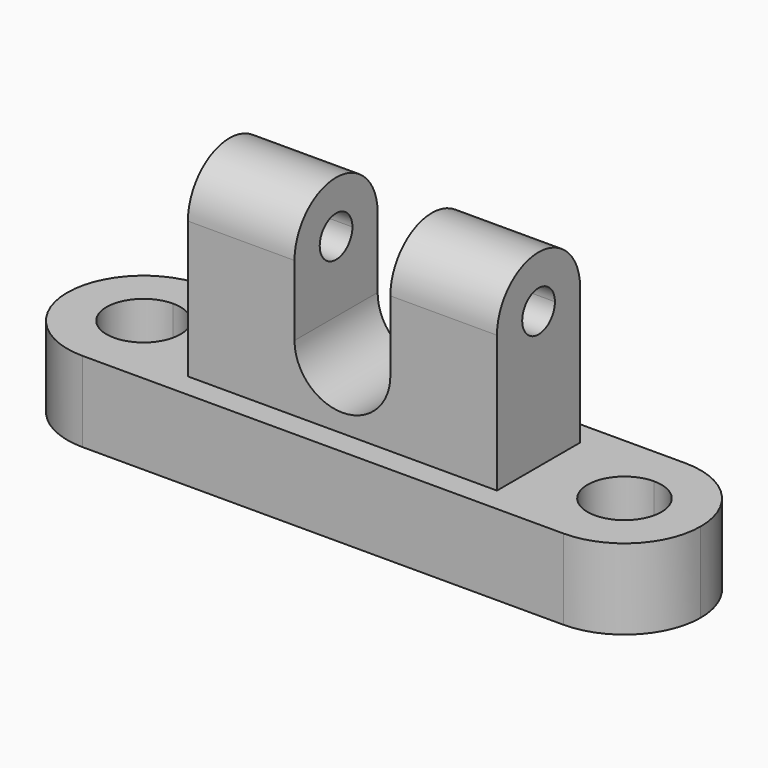
from build123d import *

# Parameters (mm, degrees)
F1_DEPTH = 13.208
F3_DEPTH = 25.4
F4_DEPTH = 25.4
F6_DEPTH = 25.4
F7_DEPTH = 25.4


with BuildPart() as f1:
    # F0 (on Top) → F1 (new body)
    with BuildSketch(Plane.XY):
        with BuildLine():
            ThreePointArc((39.5257622004, -12.5212473795), (27.0045148209, 0), (39.5257622004, 12.5212473795))
            Line((39.5257622004, 12.5212473795), (-39.5257622004, 12.5212473795))
            ThreePointArc((-39.5257622004, 12.5212473795), (-30.6719032694, 8.8538589309), (-27.0045148209, 0))
            ThreePointArc((-27.0045148209, 0), (-30.6719032694, -8.8538589309), (-39.5257622004, -12.5212473795))
            Line((-39.5257622004, -12.5212473795), (39.5257622004, -12.5212473795))
        make_face()
        with BuildLine():
            ThreePointArc((52.0470095798, 0), (48.3796211313, 8.8538589309), (39.5257622004, 12.5212473795))
            Line((39.5257622004, 12.5212473795), (39.5257622004, 6.073428591))
            ThreePointArc((39.5257622004, 6.073428591), (43.8203247421, 4.2945625417), (45.5991907913, 0))
            ThreePointArc((45.5991907913, 0), (43.8203247421, -4.2945625417), (39.5257622004, -6.073428591))
            Line((39.5257622004, -6.073428591), (39.5257622004, -12.5212473795))
            ThreePointArc((39.5257622004, -12.5212473795), (48.3796211313, -8.8538589309), (52.0470095798, 0))
        make_face()
        with BuildLine():
            Line((39.5257622004, 6.073428591), (39.5257622004, 12.5212473795))
            ThreePointArc((39.5257622004, 12.5212473795), (27.0045148209, 0), (39.5257622004, -12.5212473795))
            Line((39.5257622004, -12.5212473795), (39.5257622004, -6.073428591))
            ThreePointArc((39.5257622004, -6.073428591), (33.4523336094, 0), (39.5257622004, 6.073428591))
        make_face()
        with BuildLine():
            ThreePointArc((-27.0045148209, 0), (-30.6719032694, 8.8538589309), (-39.5257622004, 12.5212473795))
            Line((-39.5257622004, 12.5212473795), (-39.5257622004, 6.073428591))
            ThreePointArc((-39.5257622004, 6.073428591), (-35.2311996586, 4.2945625417), (-33.4523336094, 0))
            ThreePointArc((-33.4523336094, 0), (-35.2311996586, -4.2945625417), (-39.5257622004, -6.073428591))
            Line((-39.5257622004, -6.073428591), (-39.5257622004, -12.5212473795))
            ThreePointArc((-39.5257622004, -12.5212473795), (-30.6719032694, -8.8538589309), (-27.0045148209, 0))
        make_face()
        with BuildLine():
            Line((-39.5257622004, 6.073428591), (-39.5257622004, 12.5212473795))
            ThreePointArc((-39.5257622004, 12.5212473795), (-52.0470095798, 0), (-39.5257622004, -12.5212473795))
            Line((-39.5257622004, -12.5212473795), (-39.5257622004, -6.073428591))
            ThreePointArc((-39.5257622004, -6.073428591), (-45.5991907913, 0), (-39.5257622004, 6.073428591))
        make_face()
    extrude(amount=F1_DEPTH)

    # F2 (on Right) → F3 (join)
    with BuildSketch(Plane.YZ):
        with BuildLine():
            Line((8.5389625284, 35.6879048049), (3.3581880853, 35.6879048049))
            ThreePointArc((3.3581880853, 35.6879048049), (0, 32.3297167197), (-3.3581880853, 35.6879048049))
            Line((-3.3581880853, 35.6879048049), (-8.5389625284, 35.6879048049))
            ThreePointArc((-8.5389625284, 35.6879048049), (0, 27.1489422766), (8.5389625284, 35.6879048049))
        make_face()
        with BuildLine():
            ThreePointArc((-3.3581880853, 35.6879048049), (0, 39.0460928902), (3.3581880853, 35.6879048049))
            Line((3.3581880853, 35.6879048049), (8.5389625284, 35.6879048049))
            ThreePointArc((8.5389625284, 35.6879048049), (0, 44.2268673333), (-8.5389625284, 35.6879048049))
            Line((-8.5389625284, 35.6879048049), (-3.3581880853, 35.6879048049))
        make_face()
        with BuildLine():
            Line((8.5389625284, 0), (8.5389625284, 35.6879048049))
            ThreePointArc((8.5389625284, 35.6879048049), (0, 27.1489422766), (-8.5389625284, 35.6879048049))
            Line((-8.5389625284, 35.6879048049), (-8.5389625284, 0))
            Line((-8.5389625284, 0), (8.5389625284, 0))
        make_face()
    extrude(amount=F3_DEPTH)

    # F2 (on Right) → F4 (join)
    with BuildSketch(Plane.YZ):
        with BuildLine():
            Line((8.5389625284, 35.6879048049), (3.3581880853, 35.6879048049))
            ThreePointArc((3.3581880853, 35.6879048049), (0, 32.3297167197), (-3.3581880853, 35.6879048049))
            Line((-3.3581880853, 35.6879048049), (-8.5389625284, 35.6879048049))
            ThreePointArc((-8.5389625284, 35.6879048049), (0, 27.1489422766), (8.5389625284, 35.6879048049))
        make_face()
        with BuildLine():
            ThreePointArc((-3.3581880853, 35.6879048049), (0, 39.0460928902), (3.3581880853, 35.6879048049))
            Line((3.3581880853, 35.6879048049), (8.5389625284, 35.6879048049))
            ThreePointArc((8.5389625284, 35.6879048049), (0, 44.2268673333), (-8.5389625284, 35.6879048049))
            Line((-8.5389625284, 35.6879048049), (-3.3581880853, 35.6879048049))
        make_face()
        with BuildLine():
            Line((8.5389625284, 0), (8.5389625284, 35.6879048049))
            ThreePointArc((8.5389625284, 35.6879048049), (0, 27.1489422766), (-8.5389625284, 35.6879048049))
            Line((-8.5389625284, 35.6879048049), (-8.5389625284, 0))
            Line((-8.5389625284, 0), (8.5389625284, 0))
        make_face()
    extrude(amount=-F4_DEPTH)

    # F5 (on Front) → F6 (cut)
    with BuildSketch(Plane.XZ):
        with BuildLine():
            Line((-7.8779369453, 24.1020768881), (7.8779369453, 24.1020768881))
            ThreePointArc((7.8779369453, 24.1020768881), (0, 31.9800138334), (-7.8779369453, 24.1020768881))
        make_face()
        with BuildLine():
            ThreePointArc((-7.8779369453, 24.1020768881), (0, 16.2241399428), (7.8779369453, 24.1020768881))
            Line((7.8779369453, 24.1020768881), (-7.8779369453, 24.1020768881))
        make_face()
        with BuildLine():
            ThreePointArc((-7.8779369453, 24.1020768881), (0, 31.9800138334), (7.8779369453, 24.1020768881))
            Line((7.8779369453, 24.1020768881), (7.8779369453, 49.5002679527))
            Line((7.8779369453, 49.5002679527), (-7.8779369453, 49.5002679527))
            Line((-7.8779369453, 49.5002679527), (-7.8779369453, 24.1020768881))
        make_face()
    extrude(amount=-F6_DEPTH, mode=Mode.SUBTRACT)

    # F5 (on Front) → F7 (cut)
    with BuildSketch(Plane.XZ):
        with BuildLine():
            Line((-7.8779369453, 24.1020768881), (7.8779369453, 24.1020768881))
            ThreePointArc((7.8779369453, 24.1020768881), (0, 31.9800138334), (-7.8779369453, 24.1020768881))
        make_face()
        with BuildLine():
            ThreePointArc((-7.8779369453, 24.1020768881), (0, 16.2241399428), (7.8779369453, 24.1020768881))
            Line((7.8779369453, 24.1020768881), (-7.8779369453, 24.1020768881))
        make_face()
        with BuildLine():
            ThreePointArc((-7.8779369453, 24.1020768881), (0, 31.9800138334), (7.8779369453, 24.1020768881))
            Line((7.8779369453, 24.1020768881), (7.8779369453, 49.5002679527))
            Line((7.8779369453, 49.5002679527), (-7.8779369453, 49.5002679527))
            Line((-7.8779369453, 49.5002679527), (-7.8779369453, 24.1020768881))
        make_face()
    extrude(amount=F7_DEPTH, mode=Mode.SUBTRACT)


solid = f1.part
